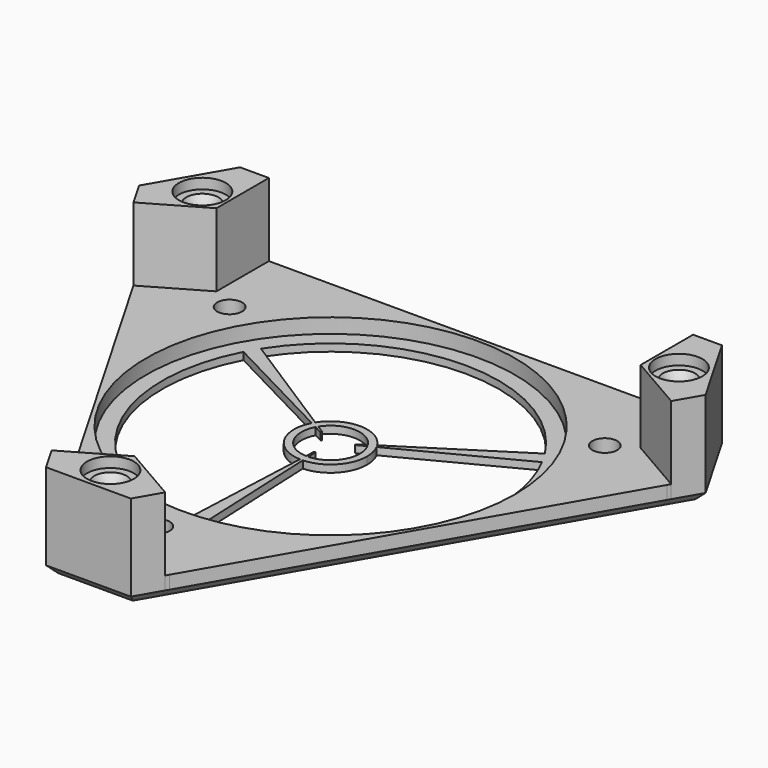
from build123d import *

# Parameters (mm, degrees)
F0_R       = 3.1
F0_R_2     = 25.2
F0_R_3     = 1.7
F1_DEPTH   = 3
F2_DEPTH   = 1
F0_R_4     = 3.2
F3_DEPTH   = 13
F0_R_5     = 1.4
F4_DEPTH   = 11.6
F5_DEPTH   = 0.6
F6_DEPTH   = 1
F7_SIZE2   = 0.8
F7_SIZE    = 1.4
F7_2_SIZE2 = 0.8
F7_2_SIZE  = 1.4
F7_3_SIZE2 = 0.8
F7_3_SIZE  = 1.4
F8_R       = 0.1
F9_SIZE    = 1.2


with BuildPart() as f1:
    # F0 (on Top) → F1 (new body)
    with BuildSketch(Plane.XY):
        Polygon((28.5, 16.4544826719), (28.5, 25.6920869789), (-28.5, 25.6920869789), (-28.5, 16.4544826719), (-36.5, 11.8356805184), (-8, -37.5277674973), (0, -32.9089653438), (8, -37.5277674973), (36.5, 11.8356805184), align=None)
        with Locations((0, -29.6)):
            Circle(F0_R, mode=Mode.SUBTRACT)
        Circle(F0_R_2, mode=Mode.SUBTRACT)
        with Locations((-25.634351952, 14.8)):
            Circle(F0_R, mode=Mode.SUBTRACT)
        with Locations((25.634351952, 14.8)):
            Circle(F0_R, mode=Mode.SUBTRACT)
        with Locations((-25.634351952, 14.8)):
            Circle(F0_R)
        with Locations((-25.634351952, 14.8)):
            Circle(F0_R_3, mode=Mode.SUBTRACT)
        with Locations((25.634351952, 14.8)):
            Circle(F0_R)
        with Locations((25.634351952, 14.8)):
            Circle(F0_R_3, mode=Mode.SUBTRACT)
        with Locations((0, -29.6)):
            Circle(F0_R)
        with Locations((0, -29.6)):
            Circle(F0_R_3, mode=Mode.SUBTRACT)
        Polygon((-28.5, 16.4544826719), (-28.5, 25.6920869789), (-28.981864252, 25.6920869789), (-28.981864252, 16.7326871275), (-36.740932126, 12.2529872018), (-36.5, 11.8356805184), align=None)
        Polygon((28.981864252, 25.6920869789), (28.5, 25.6920869789), (28.5, 16.4544826719), (36.5, 11.8356805184), (36.740932126, 12.2529872018), (28.981864252, 16.7326871275), align=None)
        Polygon((7.759067874, -37.9450741808), (8, -37.5277674973), (0, -32.9089653438), (-8, -37.5277674973), (-7.759067874, -37.9450741808), (0, -33.4653742551), align=None)
    extrude(amount=F1_DEPTH)

    # F0 (on Top) → F2 (join)
    with BuildSketch(Plane.XY):
        Circle(F0_R_2)
        with BuildLine():
            ThreePointArc((19.3997487421, 12.3551506969), (19.918584287, 11.5), (20.3997487421, 10.6230998893))
            ThreePointArc((20.3997487421, 10.6230998893), (22.3404814302, 5.468353451), (23, 0))
            ThreePointArc((23, 0), (16.6132477258, -15.9059737206), (1, -22.9782505862))
            ThreePointArc((1, -22.9782505862), (0, -23), (-1, -22.9782505862))
            ThreePointArc((-1, -22.9782505862), (-19.918584287, -11.5), (-20.3997487421, 10.6230998893))
            ThreePointArc((-20.3997487421, 10.6230998893), (-19.918584287, 11.5), (-19.3997487421, 12.3551506969))
            ThreePointArc((-19.3997487421, 12.3551506969), (0, 23), (19.3997487421, 12.3551506969))
        make_face(mode=Mode.SUBTRACT)
        with BuildLine():
            Line((1, -22.9782505862), (0.2000154666, -4.9959977795))
            ThreePointArc((0.2000154666, -4.9959977795), (0, -5), (-0.2000154666, -4.9959977795))
            Line((-0.2000154666, -4.9959977795), (-1, -22.9782505862))
            ThreePointArc((-1, -22.9782505862), (0, -23), (1, -22.9782505862))
        make_face()
        with BuildLine():
            ThreePointArc((4.226653261, 2.671217365), (4.3301270189, 2.5), (4.4266687276, 2.3247804145))
            Line((4.4266687276, 2.3247804145), (20.3997487421, 10.6230998893))
            ThreePointArc((20.3997487421, 10.6230998893), (19.918584287, 11.5), (19.3997487421, 12.3551506969))
            Line((19.3997487421, 12.3551506969), (4.226653261, 2.671217365))
        make_face()
        with BuildLine():
            ThreePointArc((-4.4266687276, 2.3247804145), (-4.3301270189, 2.5), (-4.226653261, 2.671217365))
            Line((-4.226653261, 2.671217365), (-19.3997487421, 12.3551506969))
            ThreePointArc((-19.3997487421, 12.3551506969), (-19.918584287, 11.5), (-20.3997487421, 10.6230998893))
            Line((-20.3997487421, 10.6230998893), (-4.4266687276, 2.3247804145))
        make_face()
        with BuildLine():
            Line((-0.2000154666, -4.9959977795), (-0.1555714282, -3.9969735464))
            ThreePointArc((-0.1555714282, -3.9969735464), (-3.4641016151, -2), (-3.5392663435, 1.8637579643))
            Line((-3.5392663435, 1.8637579643), (-4.4266687276, 2.3247804145))
            ThreePointArc((-4.4266687276, 2.3247804145), (-4.3301270189, -2.5), (-0.2000154666, -4.9959977795))
        make_face()
        with BuildLine():
            ThreePointArc((3.5392663435, 1.8637579643), (3.883108637, 0.9599308897), (4, 0))
            ThreePointArc((4, 0), (2.8829052805, -2.7728788548), (0.1555714282, -3.9969735464))
            Line((0.1555714282, -3.9969735464), (0.2000154666, -4.9959977795))
            ThreePointArc((0.2000154666, -4.9959977795), (3.6055566375, -3.4640960341), (5, 0))
            ThreePointArc((5, 0), (4.8545516599, 1.1972168479), (4.4266687276, 2.3247804145))
            Line((4.4266687276, 2.3247804145), (3.5392663435, 1.8637579643))
        make_face()
        with BuildLine():
            ThreePointArc((-3.3836949154, 2.1332155821), (0, 4), (3.3836949154, 2.1332155821))
            Line((3.3836949154, 2.1332155821), (4.226653261, 2.671217365))
            ThreePointArc((4.226653261, 2.671217365), (0, 5), (-4.226653261, 2.671217365))
            Line((-4.226653261, 2.671217365), (-3.3836949154, 2.1332155821))
        make_face()
        with BuildLine():
            Line((0.4330127019, 0.25), (3.5392663435, 1.8637579643))
            ThreePointArc((3.5392663435, 1.8637579643), (3.4641016151, 2), (3.3836949154, 2.1332155821))
            Line((3.3836949154, 2.1332155821), (0.4330127019, 0.25))
        make_face()
        with BuildLine():
            Line((-0.4330127019, 0.25), (-3.3836949154, 2.1332155821))
            ThreePointArc((-3.3836949154, 2.1332155821), (-3.4641016151, 2), (-3.5392663435, 1.8637579643))
            Line((-3.5392663435, 1.8637579643), (-0.4330127019, 0.25))
        make_face()
        with BuildLine():
            ThreePointArc((-0.1555714282, -3.9969735464), (0, -4), (0.1555714282, -3.9969735464))
            Line((0.1555714282, -3.9969735464), (0, -0.5))
            Line((0, -0.5), (-0.1555714282, -3.9969735464))
        make_face()
        with BuildLine():
            Line((0.2000154666, -4.9959977795), (0.1555714282, -3.9969735464))
            ThreePointArc((0.1555714282, -3.9969735464), (0, -4), (-0.1555714282, -3.9969735464))
            Line((-0.1555714282, -3.9969735464), (-0.2000154666, -4.9959977795))
            ThreePointArc((-0.2000154666, -4.9959977795), (0, -5), (0.2000154666, -4.9959977795))
        make_face()
        with BuildLine():
            ThreePointArc((3.3836949154, 2.1332155821), (3.4641016151, 2), (3.5392663435, 1.8637579643))
            Line((3.5392663435, 1.8637579643), (4.4266687276, 2.3247804145))
            ThreePointArc((4.4266687276, 2.3247804145), (4.3301270189, 2.5), (4.226653261, 2.671217365))
            Line((4.226653261, 2.671217365), (3.3836949154, 2.1332155821))
        make_face()
        with BuildLine():
            ThreePointArc((-3.5392663435, 1.8637579643), (-3.4641016151, 2), (-3.3836949154, 2.1332155821))
            Line((-3.3836949154, 2.1332155821), (-4.226653261, 2.671217365))
            ThreePointArc((-4.226653261, 2.671217365), (-4.3301270189, 2.5), (-4.4266687276, 2.3247804145))
            Line((-4.4266687276, 2.3247804145), (-3.5392663435, 1.8637579643))
        make_face()
    extrude(amount=F2_DEPTH)

    # F0 (on Top) → F3 (join)
    with BuildSketch(Plane.XY):
        Polygon((-28.981864252, 16.7326871275), (-28.981864252, 25.6920869789), (-32.9199963413, 25.6920869789), (-38.7099981707, 15.6635096346), (-36.740932126, 12.2529872018), align=None)
        with Locations((-32.5625551823, 18.8)):
            Circle(F0_R_4, mode=Mode.SUBTRACT)
        Polygon((5.7900018293, -41.3555966135), (7.759067874, -37.9450741808), (0, -33.4653742551), (-7.759067874, -37.9450741808), (-5.7900018293, -41.3555966135), align=None)
        with Locations((0, -37.6)):
            Circle(F0_R_4, mode=Mode.SUBTRACT)
        Polygon((32.9199963413, 25.6920869789), (28.981864252, 25.6920869789), (28.981864252, 16.7326871275), (36.740932126, 12.2529872018), (38.7099981707, 15.6635096346), align=None)
        with Locations((32.5625551823, 18.8)):
            Circle(F0_R_4, mode=Mode.SUBTRACT)
    extrude(amount=F3_DEPTH)

    # F0 (on Top) → F4 (join)
    with BuildSketch(Plane.XY):
        with Locations((0, -37.6)):
            Circle(F0_R_4)
        with Locations((0, -37.6)):
            Circle(F0_R_5, mode=Mode.SUBTRACT)
        with Locations((-32.5625551823, 18.8)):
            Circle(F0_R_4)
        with Locations((-32.5625551823, 18.8)):
            Circle(F0_R_5, mode=Mode.SUBTRACT)
        with Locations((32.5625551823, 18.8)):
            Circle(F0_R_4)
        with Locations((32.5625551823, 18.8)):
            Circle(F0_R_5, mode=Mode.SUBTRACT)
    extrude(amount=F4_DEPTH)

    # F0 (on Top) → F5 (join)
    with BuildSketch(Plane.XY):
        with Locations((0, -37.6)):
            Circle(F0_R_5)
        with Locations((-32.5625551823, 18.8)):
            Circle(F0_R_5)
        with Locations((32.5625551823, 18.8)):
            Circle(F0_R_5)
    extrude(amount=F5_DEPTH)

    # F0 (on Top) → F6 (cut)
    with BuildSketch(Plane.XY):
        with Locations((25.634351952, 14.8)):
            Circle(F0_R)
        with Locations((25.634351952, 14.8)):
            Circle(F0_R_3, mode=Mode.SUBTRACT)
        with Locations((-25.634351952, 14.8)):
            Circle(F0_R)
        with Locations((-25.634351952, 14.8)):
            Circle(F0_R_3, mode=Mode.SUBTRACT)
        with Locations((0, -29.6)):
            Circle(F0_R)
        with Locations((0, -29.6)):
            Circle(F0_R_3, mode=Mode.SUBTRACT)
    extrude(amount=F6_DEPTH, mode=Mode.SUBTRACT)

    # F7
    f7_edges = [f1.edges().sort_by_distance(p)[0] for p in [
        (-33.962555, 18.8, 11.6),
    ]]
    f7_side = f1.faces().sort_by_distance((-33.962555, 18.8, 6.1))[0]
    chamfer(f7_edges, length=F7_SIZE, length2=F7_SIZE2, reference=f7_side)

    # F7#2
    f7_2_edges = [f1.edges().sort_by_distance(p)[0] for p in [
        (31.162555, 18.8, 11.6),
    ]]
    f7_2_side = f1.faces().sort_by_distance((31.162555, 18.8, 6.1))[0]
    chamfer(f7_2_edges, length=F7_2_SIZE, length2=F7_2_SIZE2, reference=f7_2_side)

    # F7#3
    f7_3_edges = [f1.edges().sort_by_distance(p)[0] for p in [
        (-1.4, -37.6, 11.6),
    ]]
    f7_3_side = f1.faces().sort_by_distance((-1.4, -37.6, 6.1))[0]
    chamfer(f7_3_edges, length=F7_3_SIZE, length2=F7_3_SIZE2, reference=f7_3_side)

    # F8
    f8_edges = [f1.edges().sort_by_distance(p)[0] for p in [
        (-0.433013, 0.25, 0.5),
        (0.433013, 0.25, 0.5),
        (0, -0.5, 0.5),
    ]]
    fillet(f8_edges, radius=F8_R)

    # F9
    f9_edges = [f1.edges().sort_by_distance(p)[0] for p in [
        (-22.25, -12.846043, 0),
        (-35.814997, 20.677798, 0),
        (0, 25.692087, 0),
        (35.814997, 20.677798, 0),
        (22.25, -12.846043, 0),
        (0, -41.355597, 0),
    ]]
    chamfer(f9_edges, length=F9_SIZE)


solid = f1.part
